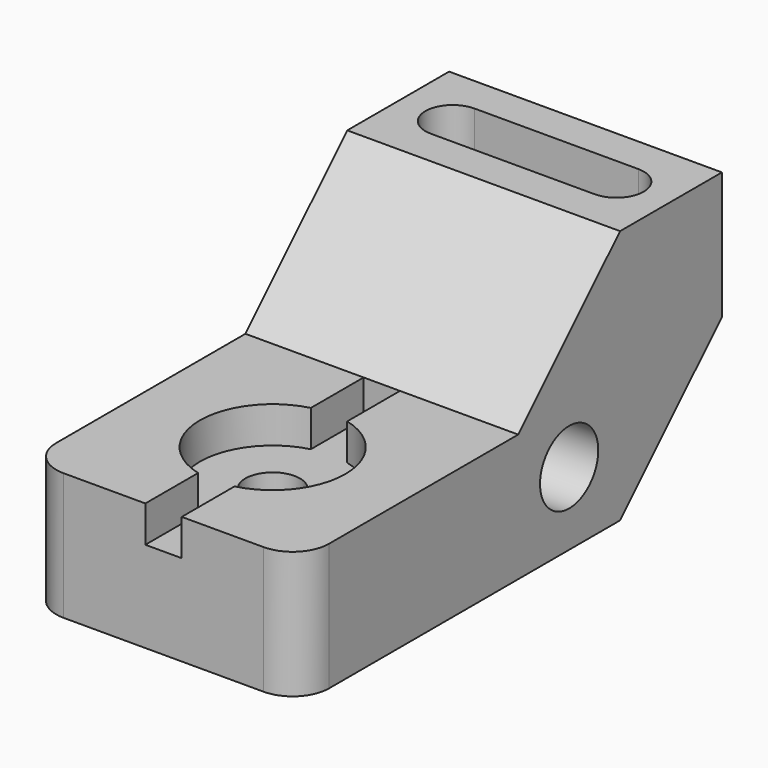
from build123d import *

# Parameters (mm, degrees)
F1_DEPTH       = 38.1
F3_D           = 20.32
F5_DEPTH       = 27.94
F7_D           = 15.24
F7_CBORE_D     = 40.64
F7_CBORE_DEPTH = 10.16
F9_DEPTH       = 76.2
F10_R          = 10.16


with BuildPart() as f1:
    # F0 (on Right) → F1 (new body, symmetric)
    with BuildSketch(Plane.YZ):
        Polygon((-111.76, 0), (0, 0), (35.56, 35.56), (35.56, 71.12), (0, 71.12), (-35.56, 35.56), (-111.76, 35.56), align=None)
    extrude(amount=F1_DEPTH, both=True)

    # F3 (through all)
    with Locations(Plane.YZ.offset(38.1)):
        with Locations((-17.78, 20.32)):
            Hole(F3_D / 2)

    # F4 (on face) → F5 (cut)
    with BuildSketch(Plane.XY.offset(71.12)):
        with BuildLine():
            Line((-22.86, 10.16), (22.86, 10.16))
            ThreePointArc((22.86, 10.16), (30.48, 17.78), (22.86, 25.4))
            Line((22.86, 25.4), (-22.86, 25.4))
            ThreePointArc((-22.86, 25.4), (-30.48, 17.78), (-22.86, 10.16))
        make_face()
    extrude(amount=-F5_DEPTH, mode=Mode.SUBTRACT)

    # F7 (through all)
    with Locations(Plane.XY.offset(35.56)):
        with Locations((0, -73.66)):
            CounterBoreHole(F7_D / 2, F7_CBORE_D / 2, F7_CBORE_DEPTH)

    # F8 (on face) → F9 (cut)
    with BuildSketch(Plane.XZ.offset(111.76)):
        Polygon((5.08, 35.56), (0, 35.56), (-5.08, 35.56), (-5.08, 25.4), (5.08, 25.4), align=None)
    extrude(amount=-F9_DEPTH, mode=Mode.SUBTRACT)

    # F10
    f10_edges = [f1.edges().sort_by_distance(p)[0] for p in [
        (-38.1, -111.76, 17.78),
        (38.1, -111.76, 17.78),
    ]]
    fillet(f10_edges, radius=F10_R)


solid = f1.part
